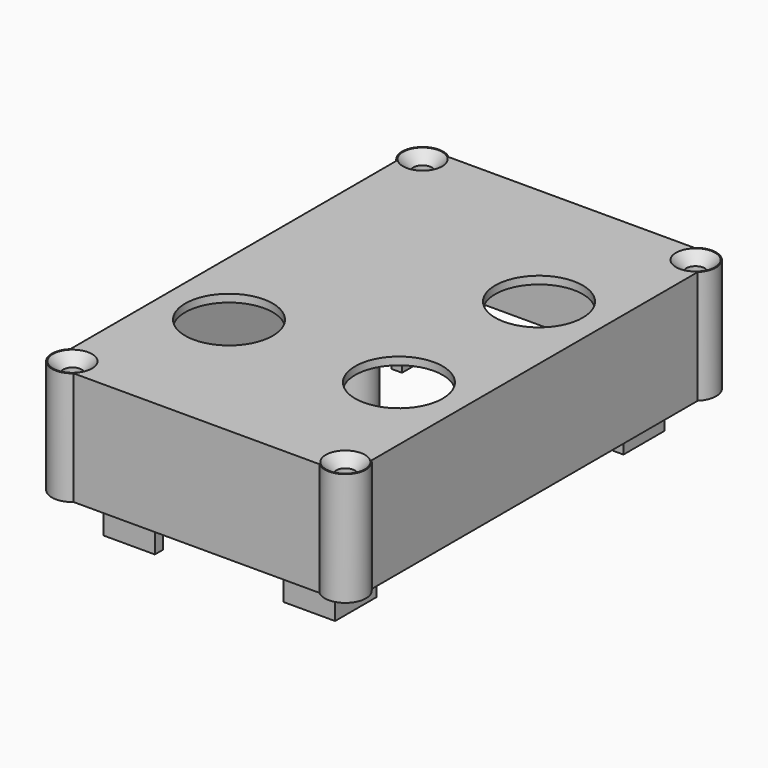
from build123d import *

# Parameters (mm, degrees)
F0_W      = 58.5
F0_H      = 91
F1_DEPTH  = 22
F2_T      = -1.5
F3_R      = 8.5
F4_DEPTH  = 25
F5_R      = 3
F6_R      = 2
F8_DEPTH  = 28
F9_W      = 2
F9_H      = 3
F9_R      = 4
F9_R_2    = 1.8
F10_DEPTH = 26
F11_R     = 4
F12_DEPTH = 22
F13_R     = 1.8
F14_DEPTH = 26
F16_SIZE  = 2


with BuildPart() as f1:
    # F0 (on Top) → F1 (new body)
    with BuildSketch(Plane.XY):
        Rectangle(F0_W, F0_H)
    extrude(amount=F1_DEPTH)

    # F2
    f2_openings = [f1.faces().sort_by_distance(p)[0] for p in [
        (0, 0, 0),
    ]]
    offset(amount=F2_T, openings=f2_openings)

    # F3 (on face) → F4 (cut)
    with BuildSketch(Plane.XY.offset(22)):
        with Locations((16.5, 17)):
            Circle(F3_R)
        with Locations((16.5, -17)):
            Circle(F3_R)
        with Locations((-16.5, -17)):
            Circle(F3_R)
    extrude(amount=-F4_DEPTH, mode=Mode.SUBTRACT)

    # F5
    f5_edges = [f1.edges().sort_by_distance(p)[0] for p in [
        (-29.25, 45.5, 11),
        (29.25, 45.5, 11),
        (-29.25, -45.5, 11),
        (29.25, -45.5, 11),
    ]]
    fillet(f5_edges, radius=F5_R)

    # F6
    f6_edges = [f1.edges().sort_by_distance(p)[0] for p in [
        (-27.75, 44, 10.25),
        (-27.75, -44, 10.25),
        (27.75, -44, 10.25),
        (27.75, 44, 10.25),
    ]]
    fillet(f6_edges, radius=F6_R)

    # F7 (on face) → F8 (join)
    with BuildSketch(Plane(origin=(0, 0, 20.5), x_dir=(1, 0, 0), z_dir=(0, 0, -1))):
        Polygon((12.5, 38), (20.5, 38), (20.5, 30), (22.5, 30), (22.5, 40), (12.5, 40), align=None)
        Polygon((20.5, -30), (20.5, -38), (12.5, -38), (12.5, -40), (22.5, -40), (22.5, -30), align=None)
        Polygon((-20.5, 30), (-20.5, 38), (-12.5, 38), (-12.5, 40), (-22.5, 40), (-22.5, 30), align=None)
        Polygon((-12.5, -40), (-12.5, -38), (-20.5, -38), (-20.5, -30), (-22.5, -30), (-22.5, -40), align=None)
    extrude(amount=F8_DEPTH)

    # F9 (on face) → F10 (join)
    with BuildSketch(Plane(origin=(0, 0, 20.5), x_dir=(1, 0, 0), z_dir=(0, 0, -1))):
        with Locations((19.5, 36.5)):
            Rectangle(F9_W, F9_H)
        with Locations((-19.5, 36.5)):
            Rectangle(F9_W, F9_H)
        with Locations((-19.5, -36.5)):
            Rectangle(F9_W, F9_H)
        with Locations((19.5, -36.5)):
            Rectangle(F9_W, F9_H)
        with Locations((0, 7.5)):
            Circle(F9_R)
        with Locations((0, 7.5)):
            Circle(F9_R_2, mode=Mode.SUBTRACT)
    extrude(amount=F10_DEPTH)

    # F11 (on face) → F12 (join)
    with BuildSketch(Plane.XY):
        with Locations((26.5, -42.5)):
            Circle(F11_R)
        with Locations((26.5, 42.5)):
            Circle(F11_R)
        with Locations((-26.5, 42.5)):
            Circle(F11_R)
        with Locations((-26.5, -42.5)):
            Circle(F11_R)
    extrude(amount=F12_DEPTH)

    # F13 (on Top) → F14 (cut)
    with BuildSketch(Plane.XY):
        with Locations((26.5, -42.5)):
            Circle(F13_R)
        with Locations((26.5, 42.5)):
            Circle(F13_R)
        with Locations((-26.5, -42.5)):
            Circle(F13_R)
        with Locations((-26.5, 42.5)):
            Circle(F13_R)
    extrude(amount=F14_DEPTH, mode=Mode.SUBTRACT)

    # F16
    f16_edges = [f1.edges().sort_by_distance(p)[0] for p in [
        (24.7, -42.5, 22),
        (24.7, 42.5, 22),
        (-28.3, 42.5, 22),
        (-28.3, -42.5, 22),
    ]]
    chamfer(f16_edges, length=F16_SIZE)


solid = f1.part
